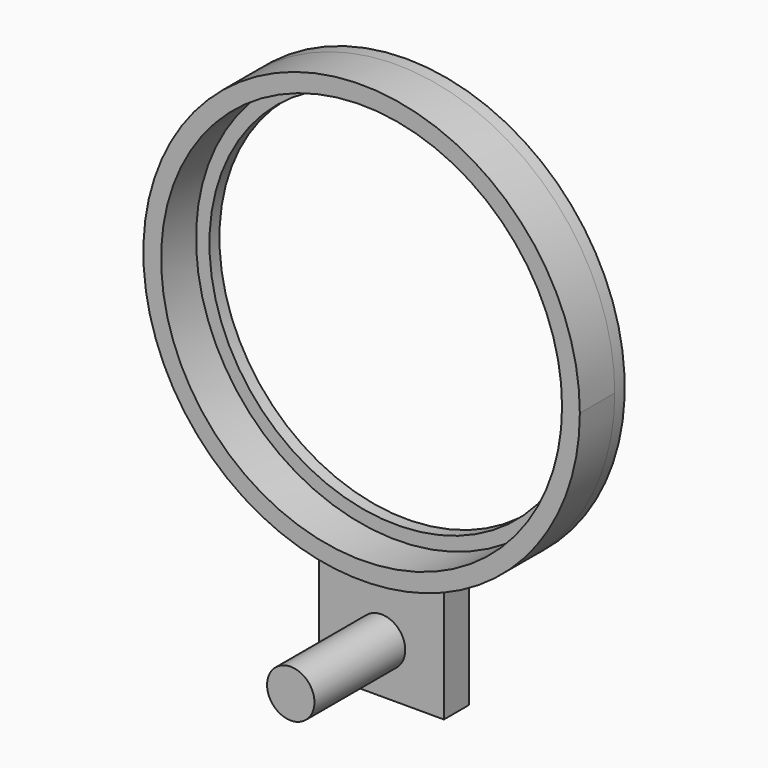
from build123d import *

# Parameters (mm, degrees)
F0_R     = 15
F1_DEPTH = 1
F2_R     = 16.075
F3_DEPTH = 3.5
F4_DEPTH = 1.5
F5_R     = 1.9
F6_DEPTH = 9.1


with BuildPart() as f1:
    # F0 (on Front) → F1 (new body)
    with BuildSketch(Plane.XZ):
        with BuildLine():
            Line((5, -26.5), (5, -16.77051))
            ThreePointArc((5, -16.77051), (0, 17.5), (-5, -16.77051))
            Line((-5, -16.77051), (-5, -26.5))
            Line((-5, -26.5), (5, -26.5))
        make_face()
        Circle(F0_R, mode=Mode.SUBTRACT)
    extrude(amount=F1_DEPTH)

    # F2 (on face) → F3 (join)
    with BuildSketch(Plane.XZ.offset(1)):
        with BuildLine():
            ThreePointArc((5, -16.77051), (14.031215, -10.45825), (17.5, 0))
            ThreePointArc((17.5, 0), (-10.45825, 14.031215), (-5, -16.77051))
            ThreePointArc((-5, -16.77051), (0, -17.5), (5, -16.77051))
        make_face()
        Circle(F2_R, mode=Mode.SUBTRACT)
    extrude(amount=F3_DEPTH)

    # F3_face (on face) → F4 (join)
    with BuildSketch(Plane(origin=(0, -1, -21.876907), x_dir=(1, 0, 0), z_dir=(0, -1, 0))):
        with BuildLine():
            ThreePointArc((5, 5.106397), (0, 4.376907), (-5, 5.106397))
            Line((-5, 5.106397), (-5, -4.623093))
            Line((-5, -4.623093), (5, -4.623093))
            Line((5, -4.623093), (5, 5.106397))
        make_face()
    extrude(amount=F4_DEPTH)

    # F5 (on face) → F6 (join)
    with BuildSketch(Plane.XZ.offset(2.5)):
        with Locations((0, -22.6)):
            Circle(F5_R)
    extrude(amount=F6_DEPTH)


solid = f1.part
